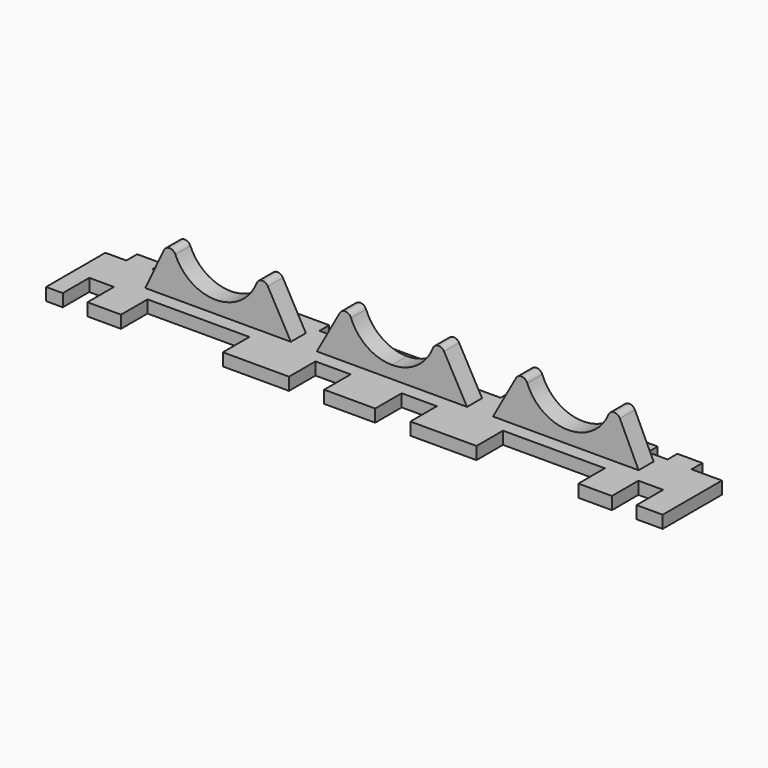
from build123d import *

# Parameters (mm, degrees)
F1_DEPTH = 7.5
F2_DEPTH = 3
F3_DEPTH = 6.5
F4_W     = 5.6182215922
F4_H     = 5.2901296224
F4_W_2   = 4.8481553793
F4_H_2   = 2.1686895564
F4_W_3   = 11.6345733404
F4_H_3   = 1.9571522065
F4_W_4   = 3.1425692141
F4_W_5   = 9.7834728658
F4_W_6   = 16.2676852196
F4_W_7   = 3.9411410689
F4_W_8   = 3.3481553793
F5_DEPTH = 2
F6_R     = 1


with BuildPart() as f1:
    # F0 (on Front) → F1 (new body)
    with BuildSketch(Plane.XZ):
        Polygon((-48.5, 2), (-48.5, 0), (50, 0), (50, 2), (40.15, 2), (16.9, 2), (12.75, 2), (0.75, 2), (-11.25, 2), (-15.4, 2), (-38.65, 2), align=None)
    extrude(amount=F1_DEPTH)

    # F0 (on Front) → F2 (join)
    with BuildSketch(Plane.XZ):
        with BuildLine():
            Line((16.9, 2), (40.15, 2))
            Line((40.15, 2), (35.9, 11))
            ThreePointArc((35.9, 11), (28.9, 4), (21.9, 11))
            Line((21.9, 11), (16.9, 2))
        make_face()
        with BuildLine():
            Line((0.75, 2), (12.75, 2))
            Line((12.75, 2), (7.75, 11))
            ThreePointArc((7.75, 11), (5.6997474683, 6.0502525317), (0.75, 4))
            Line((0.75, 4), (0.75, 2))
        make_face()
        with BuildLine():
            Line((-6.25, 11), (-11.25, 2))
            Line((-11.25, 2), (0.75, 2))
            Line((0.75, 2), (0.75, 4))
            ThreePointArc((0.75, 4), (-4.1997474683, 6.0502525317), (-6.25, 11))
        make_face()
        with BuildLine():
            Line((-34.4, 11), (-38.65, 2))
            Line((-38.65, 2), (-15.4, 2))
            Line((-15.4, 2), (-20.4, 11))
            ThreePointArc((-20.4, 11), (-27.4, 4), (-34.4, 11))
        make_face()
        Polygon((-48.5, 2), (-48.5, 0), (50, 0), (50, 2), (40.15, 2), (16.9, 2), (12.75, 2), (0.75, 2), (-11.25, 2), (-15.4, 2), (-38.65, 2), align=None)
    extrude(amount=-F2_DEPTH)

    # F0 (on Front) → F3 (join)
    with BuildSketch(Plane.XZ):
        Polygon((-48.5, 2), (-48.5, 0), (50, 0), (50, 2), (40.15, 2), (16.9, 2), (12.75, 2), (0.75, 2), (-11.25, 2), (-15.4, 2), (-38.65, 2), align=None)
    extrude(amount=-F3_DEPTH)

    # F4 (on face) → F5 (cut)
    with BuildSketch(Plane.XY.offset(2)):
        with Locations((6.8839930464, -4.8549351888)):
            Rectangle(F4_W, F4_H)
        with Locations((47.5759223104, 5.4156552218)):
            Rectangle(F4_W_2, F4_H_2)
        with Locations((27.9820300639, 5.5214238968)):
            Rectangle(F4_W_3, F4_H_3)
        with Locations((39.5776275545, 5.5214238968)):
            Rectangle(F4_W_4, F4_H_3)
        with Locations((9.5749795437, 5.5214238968)):
            Rectangle(F4_W_5, F4_H_3)
        with Locations((28.3925579861, -4.8549351888)):
            Rectangle(F4_W_6, F4_H)
        with Locations((43.8636317849, -4.8549351888)):
            Rectangle(F4_W_7, F4_H)
        with Locations((-6.8839930464, -4.8549351888)):
            Rectangle(F4_W, F4_H)
        with Locations((-9.5749795437, 5.5214238968)):
            Rectangle(F4_W_5, F4_H_3)
        with Locations((-28.3925579861, -4.8549351888)):
            Rectangle(F4_W_6, F4_H)
        with Locations((-27.9820300639, 5.5214238968)):
            Rectangle(F4_W_3, F4_H_3)
        with Locations((-39.5776275545, 5.5214238968)):
            Rectangle(F4_W_4, F4_H_3)
        with Locations((-43.8636317849, -4.8549351888)):
            Rectangle(F4_W_7, F4_H)
        with Locations((-46.8259223104, 5.4156552218)):
            Rectangle(F4_W_8, F4_H_2)
    extrude(amount=-F5_DEPTH, mode=Mode.SUBTRACT)

    # F6
    f6_edges = [f1.edges().sort_by_distance(p)[0] for p in [
        (35.9, 1.5, 11),
        (21.9, 1.5, 11),
        (7.75, 1.5, 11),
        (-6.25, 1.5, 11),
        (-20.4, 1.5, 11),
        (-34.4, 1.5, 11),
    ]]
    fillet(f6_edges, radius=F6_R)


solid = f1.part
